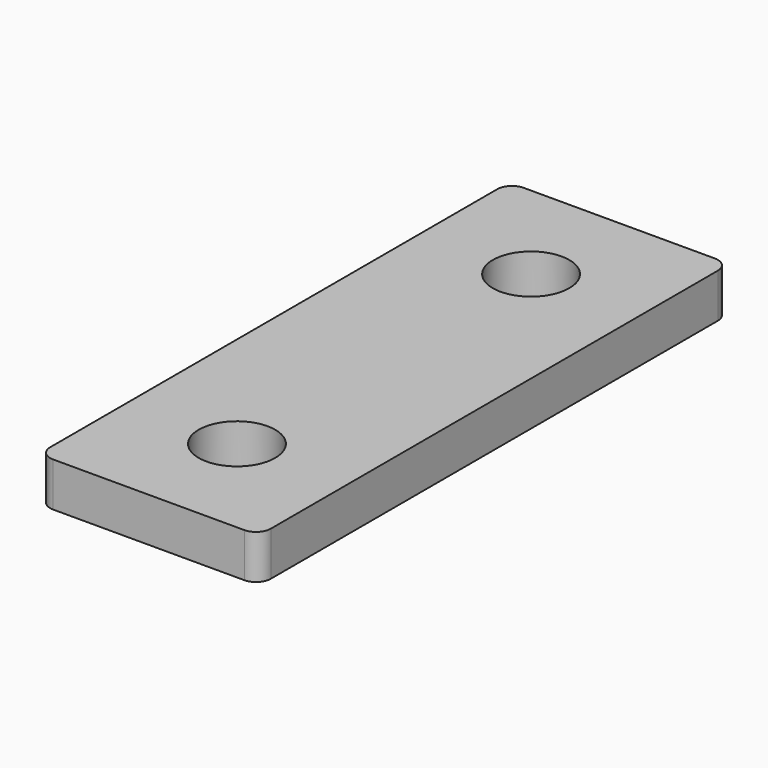
from build123d import *

# Parameters (mm, degrees)
SKETCH_W  = 15
SKETCH_H  = 40
SKETCH_R  = 2.6
PAD_DEPTH = 3
FILLET_R  = 1


with BuildPart() as part:
    # Sketch → Pad (new body)
    with BuildSketch(Plane.XY):
        Rectangle(SKETCH_W, SKETCH_H)
        with Locations((0, 12.5)):
            Circle(SKETCH_R, mode=Mode.SUBTRACT)
        with Locations((0, -12.5)):
            Circle(SKETCH_R, mode=Mode.SUBTRACT)
    extrude(amount=PAD_DEPTH)

    # Fillet
    fillet_edges = [part.edges().sort_by_distance(p)[0] for p in [
        (7.5, 20, 1.5),
        (-7.5, 20, 1.5),
        (7.5, -20, 1.5),
        (-7.5, -20, 1.5),
    ]]
    fillet(fillet_edges, radius=FILLET_R)


solid = part.part
